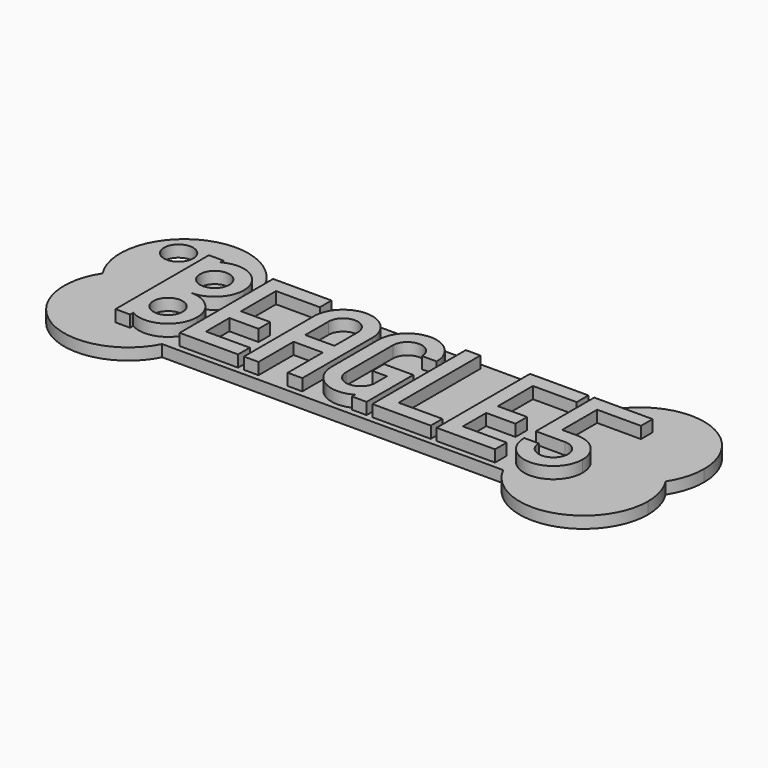
from build123d import *

# Parameters (mm, degrees)
F0_R     = 2.5
F1_DEPTH = 2
F2_W     = 7.5
F2_H     = 2.5
F2_W_2   = 2.5
F2_H_2   = 7.5
F2_W_3   = 5
F2_H_3   = 5
F2_H_4   = 17.5
F3_DEPTH = 2


with BuildPart() as f1:
    # F0 (on Top) → F1 (new body)
    with BuildSketch(Plane.XY):
        with BuildLine():
            Line((0, 6), (0, 0))
            Line((0, 0), (-9.7979589711, 0))
            ThreePointArc((-9.7979589711, 0), (2.5712303784, -5.695268783), (11, 5))
            ThreePointArc((11, 5), (10.5454964091, 8.129297922), (9.2195444573, 11))
            ThreePointArc((9.2195444573, 11), (5.2440442409, 7.3304601971), (0, 6))
        make_face()
        with BuildLine():
            Line((-9.7979589711, 0), (0, 0))
            Line((0, 0), (0, 6))
            ThreePointArc((0, 6), (-5.2440442409, 7.3304601971), (-9.2195444573, 11))
            ThreePointArc((-9.2195444573, 11), (-10.9848240388, 5.5776165142), (-9.7979589711, 0))
        make_face()
        with BuildLine():
            Line((-68.2020410289, 0), (-9.7979589711, 0))
            ThreePointArc((-9.7979589711, 0), (-10.9848240388, 5.5776165142), (-9.2195444573, 11))
            ThreePointArc((-9.2195444573, 11), (-10.9848240388, 16.4223834858), (-9.7979589711, 22))
            Line((-9.7979589711, 22), (-68.2020410289, 22))
            ThreePointArc((-68.2020410289, 22), (-67.304731217, 19.5712303784), (-67, 17))
            ThreePointArc((-67, 17), (-67.4545035909, 13.870702078), (-68.7804555427, 11))
            ThreePointArc((-68.7804555427, 11), (-67.4545035909, 8.129297922), (-67, 5))
            ThreePointArc((-67, 5), (-67.304731217, 2.4287696216), (-68.2020410289, 0))
        make_face()
        with BuildLine():
            Line((0, 16), (0, 6))
            ThreePointArc((0, 6), (5.2440442409, 7.3304601971), (9.2195444573, 11))
            ThreePointArc((9.2195444573, 11), (5.2440442409, 14.6695398029), (0, 16))
        make_face()
        with BuildLine():
            ThreePointArc((-87.2195444573, 11), (-83.5075984637, -4.5218884242), (-68.2020410289, 0))
            Line((-68.2020410289, 0), (-78, 0))
            Line((-78, 0), (-78, 6))
            ThreePointArc((-78, 6), (-83.2440442409, 7.3304601971), (-87.2195444573, 11))
        make_face()
        with BuildLine():
            Line((-78, 0), (-68.2020410289, 0))
            ThreePointArc((-68.2020410289, 0), (-67.304731217, 2.4287696216), (-67, 5))
            ThreePointArc((-67, 5), (-67.4545035909, 8.129297922), (-68.7804555427, 11))
            ThreePointArc((-68.7804555427, 11), (-72.7559557591, 7.3304601971), (-78, 6))
            Line((-78, 6), (-78, 0))
        make_face()
        with BuildLine():
            ThreePointArc((-9.7979589711, 22), (-10.9848240388, 16.4223834858), (-9.2195444573, 11))
            ThreePointArc((-9.2195444573, 11), (-5.2440442409, 14.6695398029), (0, 16))
            Line((0, 16), (0, 22))
            Line((0, 22), (-9.7979589711, 22))
        make_face()
        with BuildLine():
            Line((0, 22), (0, 16))
            ThreePointArc((0, 16), (5.2440442409, 14.6695398029), (9.2195444573, 11))
            ThreePointArc((9.2195444573, 11), (10.5454964091, 13.870702078), (11, 17))
            ThreePointArc((11, 17), (2.5712303784, 27.695268783), (-9.7979589711, 22))
            Line((-9.7979589711, 22), (0, 22))
        make_face()
        with BuildLine():
            ThreePointArc((-78, 16), (-83.2440442409, 14.6695398029), (-87.2195444573, 11))
            ThreePointArc((-87.2195444573, 11), (-83.2440442409, 7.3304601971), (-78, 6))
            Line((-78, 6), (-78, 16))
        make_face()
        with BuildLine():
            ThreePointArc((-68.2020410289, 22), (-83.5075984637, 26.5218884242), (-87.2195444573, 11))
            ThreePointArc((-87.2195444573, 11), (-83.2440442409, 14.6695398029), (-78, 16))
            Line((-78, 16), (-78, 22))
            Line((-78, 22), (-68.2020410289, 22))
        make_face()
        with Locations((-82.9497474683, 21.9497474683)):
            Circle(F0_R, mode=Mode.SUBTRACT)
        with BuildLine():
            ThreePointArc((-67, 17), (-67.304731217, 19.5712303784), (-68.2020410289, 22))
            Line((-68.2020410289, 22), (-78, 22))
            Line((-78, 22), (-78, 16))
            ThreePointArc((-78, 16), (-72.7559557591, 14.6695398029), (-68.7804555427, 11))
            ThreePointArc((-68.7804555427, 11), (-67.4545035909, 13.870702078), (-67, 17))
        make_face()
        with BuildLine():
            Line((-78, 16), (-78, 6))
            ThreePointArc((-78, 6), (-72.7559557591, 7.3304601971), (-68.7804555427, 11))
            ThreePointArc((-68.7804555427, 11), (-72.7559557591, 14.6695398029), (-78, 16))
        make_face()
        with BuildLine():
            ThreePointArc((-9.2195444573, 11), (-5.2440442409, 7.3304601971), (0, 6))
            Line((0, 6), (0, 16))
            ThreePointArc((0, 16), (-5.2440442409, 14.6695398029), (-9.2195444573, 11))
        make_face()
    extrude(amount=F1_DEPTH)

    # F2 (on face) → F3 (join)
    with BuildSketch(Plane.XY.offset(2)):
        with Locations((-4.75, 19.75)):
            Rectangle(F2_W, F2_H)
        with Locations((-9.75, 19.75)):
            Rectangle(F2_W_2, F2_H)
        with Locations((-9.75, 14.75)):
            Rectangle(F2_W_2, F2_H_2)
        with BuildLine():
            Line((-8.5, 11), (-11, 11))
            Line((-11, 11), (-11, 8.5))
            Line((-11, 8.5), (-10.3301270189, 8.5))
            ThreePointArc((-10.3301270189, 8.5), (-8.5, 10.3301270189), (-6, 11))
            Line((-6, 11), (-8.5, 11))
        make_face()
        with BuildLine():
            ThreePointArc((-1.6698729811, 8.5), (-3.5, 10.3301270189), (-6, 11))
            ThreePointArc((-6, 11), (-8.5, 10.3301270189), (-10.3301270189, 8.5))
            Line((-10.3301270189, 8.5), (-6, 8.5))
            Line((-6, 8.5), (-1.6698729811, 8.5))
        make_face()
        with BuildLine():
            Line((-8.5, 6), (-11, 6))
            ThreePointArc((-11, 6), (-6, 1), (-1, 6))
            ThreePointArc((-1, 6), (-1.1703708686, 7.2940952255), (-1.6698729811, 8.5))
            Line((-1.6698729811, 8.5), (-6, 8.5))
            ThreePointArc((-6, 8.5), (-4.232233047, 7.767766953), (-3.5, 6))
            ThreePointArc((-3.5, 6), (-6, 3.5), (-8.5, 6))
        make_face()
        with Locations((-17, 9.75)):
            Rectangle(F2_W_3, F2_H)
        with Locations((-20.75, 9.75)):
            Rectangle(F2_W_2, F2_H)
        with Locations((-20.75, 14.75)):
            Rectangle(F2_W_2, F2_H_2)
        with Locations((-20.75, 19.75)):
            Rectangle(F2_W_2, F2_H)
        with Locations((-15.75, 19.75)):
            Rectangle(F2_W, F2_H)
        with Locations((-20.75, 6)):
            Rectangle(F2_W_2, F2_H_3)
        with Locations((-20.75, 2.25)):
            Rectangle(F2_W_2, F2_H)
        with Locations((-15.75, 2.25)):
            Rectangle(F2_W, F2_H)
        with Locations((-26.75, 2.25)):
            Rectangle(F2_W, F2_H)
        with Locations((-31.75, 2.25)):
            Rectangle(F2_W_2, F2_H)
        with Locations((-31.75, 12.25)):
            Rectangle(F2_W_2, F2_H_4)
        with BuildLine():
            Line((-41.5, 16), (-41.5, 20.3301270189))
            ThreePointArc((-41.5, 20.3301270189), (-43.3301270189, 18.5), (-44, 16))
            ThreePointArc((-44, 16), (-43.3301270189, 13.5), (-41.5, 11.6698729811))
            Line((-41.5, 11.6698729811), (-41.5, 16))
        make_face()
        with BuildLine():
            ThreePointArc((-41.5, 11.6698729811), (-43.3301270189, 13.5), (-44, 16))
            Line((-44, 16), (-44, 11))
            Line((-44, 11), (-41.5, 11))
            Line((-41.5, 11), (-41.5, 11.6698729811))
        make_face()
        with BuildLine():
            ThreePointArc((-43.3301270189, 8.5), (-42.5355339059, 9.5355339059), (-41.5, 10.3301270189))
            Line((-41.5, 10.3301270189), (-41.5, 11))
            Line((-41.5, 11), (-44, 11))
            Line((-44, 11), (-44, 8.5))
            Line((-44, 8.5), (-43.3301270189, 8.5))
        make_face()
        with BuildLine():
            Line((-41.5, 8.5), (-43.3301270189, 8.5))
            ThreePointArc((-43.3301270189, 8.5), (-43.8296291314, 7.2940952255), (-44, 6))
            ThreePointArc((-44, 6), (-43.3301270189, 3.5), (-41.5, 1.6698729811))
            Line((-41.5, 1.6698729811), (-41.5, 5.9999999784))
            Line((-41.5, 5.9999999784), (-41.5, 8.5))
        make_face()
        with BuildLine():
            ThreePointArc((-44, 6), (-43.8296291314, 7.2940952255), (-43.3301270189, 8.5))
            Line((-43.3301270189, 8.5), (-44, 8.5))
            Line((-44, 8.5), (-44, 6))
        make_face()
        with BuildLine():
            Line((-41.5, 8.5), (-41.5, 10.3301270189))
            ThreePointArc((-41.5, 10.3301270189), (-42.5355339059, 9.5355339059), (-43.3301270189, 8.5))
            Line((-43.3301270189, 8.5), (-41.5, 8.5))
        make_face()
        with BuildLine():
            ThreePointArc((-36.5, 10.3301270189), (-37.7059047745, 10.8296291314), (-39, 11))
            Line((-39, 11), (-39, 8.5))
            Line((-39, 8.5), (-36.5, 8.5))
            Line((-36.5, 8.5), (-36.5, 10.3301270189))
        make_face()
        with BuildLine():
            Line((-36.5, 11), (-39, 11))
            ThreePointArc((-39, 11), (-37.7059047745, 10.8296291314), (-36.5, 10.3301270189))
            Line((-36.5, 10.3301270189), (-36.5, 11))
        make_face()
        with BuildLine():
            Line((-34, 11), (-36.5, 11))
            Line((-36.5, 11), (-36.5, 10.3301270189))
            ThreePointArc((-36.5, 10.3301270189), (-35.4644660941, 9.5355339059), (-34.6698729811, 8.5))
            Line((-34.6698729811, 8.5), (-34, 8.5))
            Line((-34, 8.5), (-34, 11))
        make_face()
        with BuildLine():
            ThreePointArc((-34.6698729811, 8.5), (-35.4644660941, 9.5355339059), (-36.5, 10.3301270189))
            Line((-36.5, 10.3301270189), (-36.5, 8.5))
            Line((-36.5, 8.5), (-34.6698729811, 8.5))
        make_face()
        with BuildLine():
            ThreePointArc((-34, 6), (-34.1703708686, 7.2940952255), (-34.6698729811, 8.5))
            Line((-34.6698729811, 8.5), (-36.5, 8.5))
            Line((-36.5, 8.5), (-36.5, 6))
            Line((-36.5, 6), (-36.5, 1.6698729811))
            ThreePointArc((-36.5, 1.6698729811), (-34.6698729811, 3.5), (-34, 6))
        make_face()
        with BuildLine():
            Line((-34, 8.5), (-34.6698729811, 8.5))
            ThreePointArc((-34.6698729811, 8.5), (-34.1703708686, 7.2940952255), (-34, 6))
            Line((-34, 6), (-34, 8.5))
        make_face()
        with BuildLine():
            Line((-34, 1), (-34, 6))
            ThreePointArc((-34, 6), (-34.6698729811, 3.5), (-36.5, 1.6698729811))
            Line((-36.5, 1.6698729811), (-36.5, 1))
            Line((-36.5, 1), (-34, 1))
        make_face()
        with BuildLine():
            Line((-36.5, 1.6698729811), (-36.5, 6))
            ThreePointArc((-36.5, 6), (-38.9999999892, 3.5), (-41.5, 5.9999999784))
            Line((-41.5, 5.9999999784), (-41.5, 1.6698729811))
            ThreePointArc((-41.5, 1.6698729811), (-39, 1), (-36.5, 1.6698729811))
        make_face()
        with BuildLine():
            Line((-36.5, 16), (-34, 16))
            ThreePointArc((-34, 16), (-34.6698729811, 18.5), (-36.5, 20.3301270189))
            Line((-36.5, 20.3301270189), (-36.5, 16))
        make_face()
        with BuildLine():
            Line((-36.5, 16), (-36.5, 20.3301270189))
            ThreePointArc((-36.5, 20.3301270189), (-39, 21), (-41.5, 20.3301270189))
            Line((-41.5, 20.3301270189), (-41.5, 16))
            ThreePointArc((-41.5, 16), (-39, 18.5), (-36.5, 16))
        make_face()
        with BuildLine():
            ThreePointArc((-52.5, 20.3301270189), (-54.3301270189, 18.5), (-55, 16))
            ThreePointArc((-55, 16), (-54.3301270189, 13.5), (-52.5, 11.6698729811))
            Line((-52.5, 11.6698729811), (-52.5, 16))
            Line((-52.5, 16), (-52.5, 20.3301270189))
        make_face()
        with BuildLine():
            Line((-55, 16), (-55, 11))
            Line((-55, 11), (-52.5, 11))
            Line((-52.5, 11), (-52.5, 11.6698729811))
            ThreePointArc((-52.5, 11.6698729811), (-54.3301270189, 13.5), (-55, 16))
        make_face()
        with Locations((-53.75, 9.75)):
            Rectangle(F2_W_2, F2_H)
        with Locations((-53.75, 4.75)):
            Rectangle(F2_W_2, F2_H_2)
        with Locations((-46.25, 4.75)):
            Rectangle(F2_W_2, F2_H_2)
        with Locations((-46.25, 9.75)):
            Rectangle(F2_W_2, F2_H)
        with BuildLine():
            Line((-47.5, 11.6698729811), (-47.5, 11))
            Line((-47.5, 11), (-45, 11))
            Line((-45, 11), (-45, 16))
            ThreePointArc((-45, 16), (-45.6698729811, 13.5), (-47.5, 11.6698729811))
        make_face()
        with BuildLine():
            ThreePointArc((-45, 16), (-45.6698729811, 18.5), (-47.5, 20.3301270189))
            Line((-47.5, 20.3301270189), (-47.5, 16))
            Line((-47.5, 16), (-47.5, 11.6698729811))
            ThreePointArc((-47.5, 11.6698729811), (-45.6698729811, 13.5), (-45, 16))
        make_face()
        with BuildLine():
            ThreePointArc((-47.5, 20.3301270189), (-50, 21), (-52.5, 20.3301270189))
            Line((-52.5, 20.3301270189), (-52.5, 16))
            ThreePointArc((-52.5, 16), (-50, 18.5), (-47.5, 16))
            Line((-47.5, 16), (-47.5, 20.3301270189))
        make_face()
        Polygon((-50, 11), (-52.5, 11), (-52.5, 8.5), (-47.5, 8.5), (-47.5, 11), align=None)
        with Locations((-61, 9.7500000475)):
            Rectangle(F2_W_3, F2_H)
        with Locations((-64.75, 9.7500000475)):
            Rectangle(F2_W_2, F2_H)
        with Locations((-64.75, 14.7500000475)):
            Rectangle(F2_W_2, F2_H_2)
        with Locations((-64.75, 19.7500000475)):
            Rectangle(F2_W_2, F2_H)
        with Locations((-59.75, 19.7500000475)):
            Rectangle(F2_W, F2_H)
        with Locations((-64.75, 6.0000000475)):
            Rectangle(F2_W_2, F2_H_3)
        with Locations((-64.75, 2.2500000475)):
            Rectangle(F2_W_2, F2_H)
        with Locations((-59.75, 2.2500000475)):
            Rectangle(F2_W, F2_H)
        with BuildLine():
            ThreePointArc((-67, 6), (-68.4644660941, 9.5355339059), (-72, 11))
            ThreePointArc((-72, 11), (-73.2940952255, 10.8296291314), (-74.5, 10.3301270189))
            Line((-74.5, 10.3301270189), (-74.5, 6))
            Line((-74.5, 6), (-74.5, 1.6698729811))
            ThreePointArc((-74.5, 1.6698729811), (-69.5, 1.6698729811), (-67, 6))
        make_face()
        with BuildLine():
            ThreePointArc((-69.5, 6), (-72, 3.5), (-74.5, 6))
            ThreePointArc((-74.5, 6), (-72, 8.5), (-69.5, 6))
        make_face(mode=Mode.SUBTRACT)
        with BuildLine():
            ThreePointArc((-72, 11), (-68.4644660941, 12.4644660941), (-67, 16))
            ThreePointArc((-67, 16), (-69.5, 20.3301270189), (-74.5, 20.3301270189))
            Line((-74.5, 20.3301270189), (-74.5, 16))
            Line((-74.5, 16), (-74.5, 11.6698729811))
            ThreePointArc((-74.5, 11.6698729811), (-73.2940952255, 11.1703708686), (-72, 11))
        make_face()
        with BuildLine():
            ThreePointArc((-69.5, 16), (-72, 13.5), (-74.5, 16))
            ThreePointArc((-74.5, 16), (-72, 18.5), (-69.5, 16))
        make_face(mode=Mode.SUBTRACT)
        with BuildLine():
            ThreePointArc((-74.5, 10.3301270189), (-73.2940952255, 10.8296291314), (-72, 11))
            ThreePointArc((-72, 11), (-73.2940952255, 11.1703708686), (-74.5, 11.6698729811))
            Line((-74.5, 11.6698729811), (-74.5, 10.3301270189))
        make_face()
        with BuildLine():
            Line((-74.5, 16), (-74.5, 20.3301270189))
            ThreePointArc((-74.5, 20.3301270189), (-76.3301270189, 18.5), (-77, 16))
            ThreePointArc((-77, 16), (-76.3301270189, 13.5), (-74.5, 11.6698729811))
            Line((-74.5, 11.6698729811), (-74.5, 16))
        make_face()
        with BuildLine():
            ThreePointArc((-74.5, 11.6698729811), (-76.3301270189, 13.5), (-77, 16))
            Line((-77, 16), (-77, 6))
            ThreePointArc((-77, 6), (-76.3301270189, 8.5), (-74.5, 10.3301270189))
            Line((-74.5, 10.3301270189), (-74.5, 11.6698729811))
        make_face()
        with BuildLine():
            Line((-74.5, 6), (-74.5, 10.3301270189))
            ThreePointArc((-74.5, 10.3301270189), (-76.3301270189, 8.5), (-77, 6))
            ThreePointArc((-77, 6), (-76.3301270189, 3.5), (-74.5, 1.6698729811))
            Line((-74.5, 1.6698729811), (-74.5, 6))
        make_face()
        with BuildLine():
            ThreePointArc((-74.5, 1.6698729811), (-76.3301270189, 3.5), (-77, 6))
            Line((-77, 6), (-77, 1))
            Line((-77, 1), (-74.5, 1))
            Line((-74.5, 1), (-74.5, 1.6698729811))
        make_face()
        with BuildLine():
            ThreePointArc((-77, 16), (-76.3301270189, 18.5), (-74.5, 20.3301270189))
            Line((-74.5, 20.3301270189), (-74.5, 21))
            Line((-74.5, 21), (-77, 21))
            Line((-77, 21), (-77, 16))
        make_face()
    extrude(amount=F3_DEPTH)


solid = f1.part
